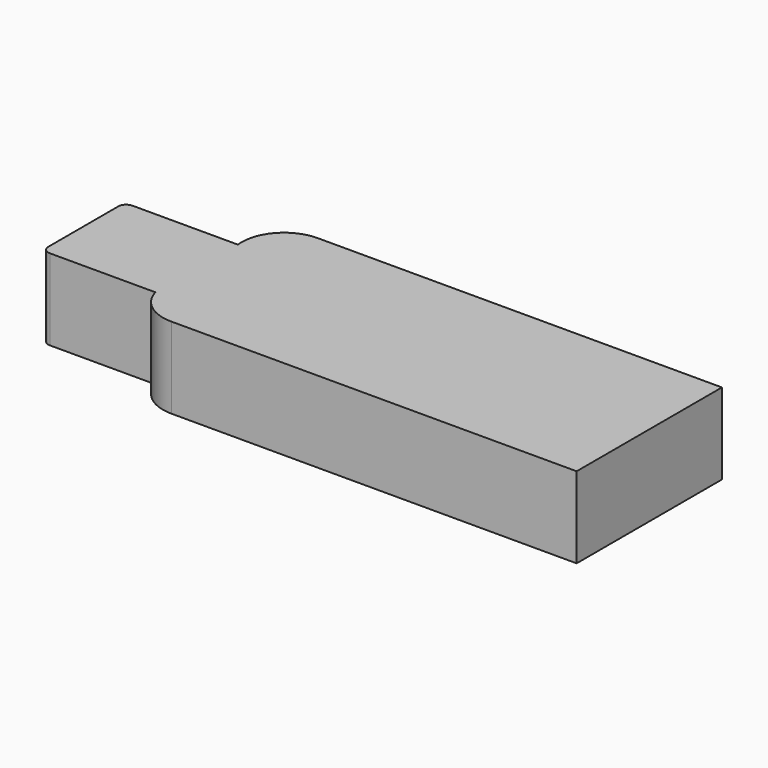
from build123d import *

# Parameters (mm, degrees)
F1_DEPTH = 5


with BuildPart() as f1:
    # F0 (on Top) → F1 (new body)
    with BuildSketch(Plane.XY):
        with BuildLine():
            ThreePointArc((-16.12638, 26.139351), (-15.194622, 24.764987), (-13.621112, 24.234785))
            Line((-13.621112, 24.234785), (11.378888, 24.234785))
            Line((11.378888, 24.234785), (11.378888, 35.434785))
            Line((11.378888, 35.434785), (-13.547671, 35.434785))
            ThreePointArc((-13.547671, 35.434785), (-15.500021, 34.551855), (-16.12638, 32.502731))
            Line((-16.12638, 32.502731), (-16.12638, 26.139351))
        make_face()
        with BuildLine():
            Line((-22.62638, 26.139351), (-16.12638, 26.139351))
            Line((-16.12638, 26.139351), (-16.12638, 32.502731))
            Line((-16.12638, 32.502731), (-22.62638, 32.502731))
            ThreePointArc((-22.62638, 32.502731), (-22.943444, 32.389345), (-23.116706, 32.100612))
            Line((-23.116706, 32.100612), (-23.116706, 26.541469))
            ThreePointArc((-23.116706, 26.541469), (-22.943444, 26.252737), (-22.62638, 26.139351))
        make_face()
    extrude(amount=F1_DEPTH)


solid = f1.part
